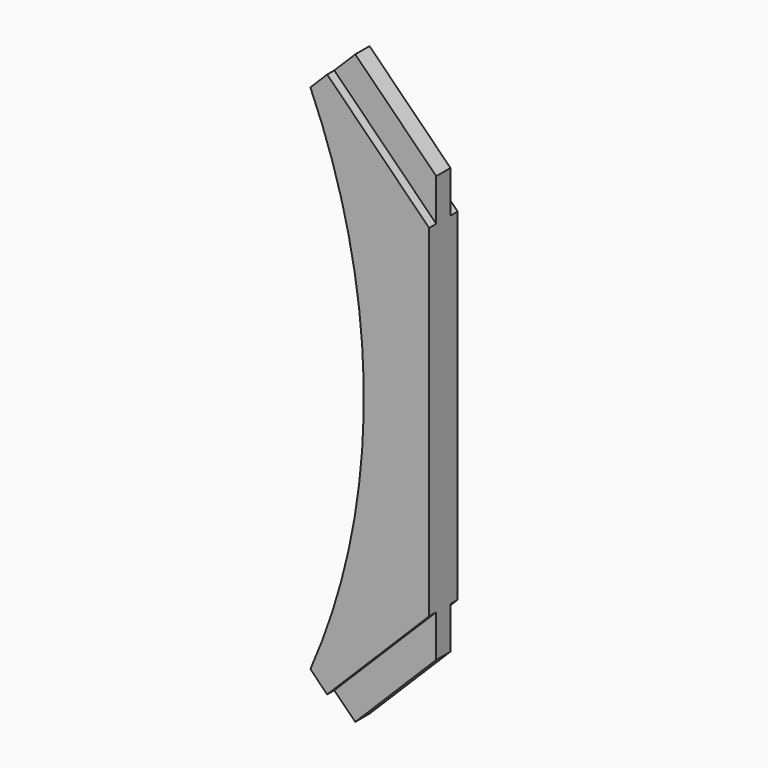
from build123d import *

# Parameters (mm, degrees)
F1_DEPTH = 38.1
F2_DEPTH = 19.05


with BuildPart() as f1:
    # F0 (on Front) → F1 (new body, symmetric)
    with BuildSketch(Plane.XZ):
        with BuildLine():
            Line((127, 289.350816), (-127, 543.350816))
            ThreePointArc((-127, 543.350816), (-12.7, -4.446916), (-127, -552.244648))
            Line((-127, -552.244648), (127, -298.244648))
            Line((127, -298.244648), (127, 289.350816))
        make_face()
        Polygon((127, -298.244648), (-127, -552.244648), (-100.059232, -579.185416), (127, -352.126184), align=None)
        Polygon((-100.059232, 570.291584), (-127, 543.350816), (127, 289.350816), (127, 343.232352), align=None)
        Polygon((-91.078976, 579.27184), (-100.059232, 570.291584), (127, 343.232352), (127, 361.192865), align=None)
        Polygon((127, -352.126184), (-100.059232, -579.185416), (-91.078976, -588.165672), (127, -370.086696), align=None)
    extrude(amount=F1_DEPTH, both=True)

    # F0 (on Front) → F2 (join, symmetric)
    with BuildSketch(Plane.XZ):
        Polygon((127, 361.192865), (127, 450.995426), (-46.177695, 624.173121), (-91.078976, 579.27184), align=None)
        Polygon((127, -370.086696), (-91.078976, -588.165672), (-46.177695, -633.066953), (127, -459.889258), align=None)
    extrude(amount=F2_DEPTH, both=True)


solid = f1.part
